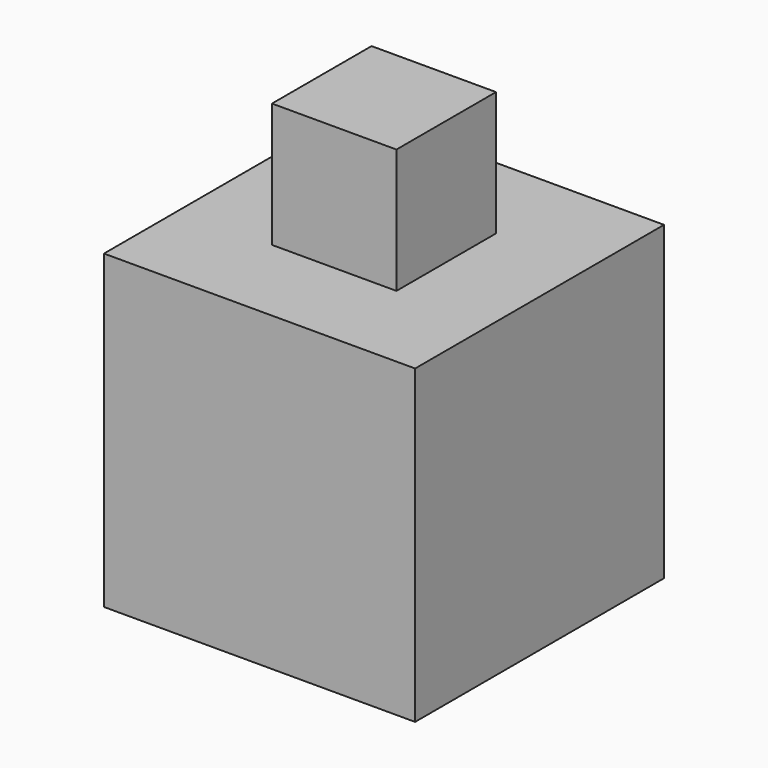
from build123d import *

# Parameters (mm, degrees)
F1_DEPTH = 25
F0_W     = 20
F0_H     = 20
F2_DEPTH = 10


with BuildPart() as f1:
    # F0 (on Front) → F1 (new body, symmetric)
    with BuildSketch(Plane.XZ):
        Polygon((-25, 25), (-25, -25), (25, -25), (25, 25), (10, 25), (-10, 25), align=None)
    extrude(amount=F1_DEPTH, both=True)

    # F0 (on Front) → F2 (join, symmetric)
    with BuildSketch(Plane.XZ):
        with Locations((0, 35)):
            Rectangle(F0_W, F0_H)
    extrude(amount=F2_DEPTH, both=True)


solid = f1.part
